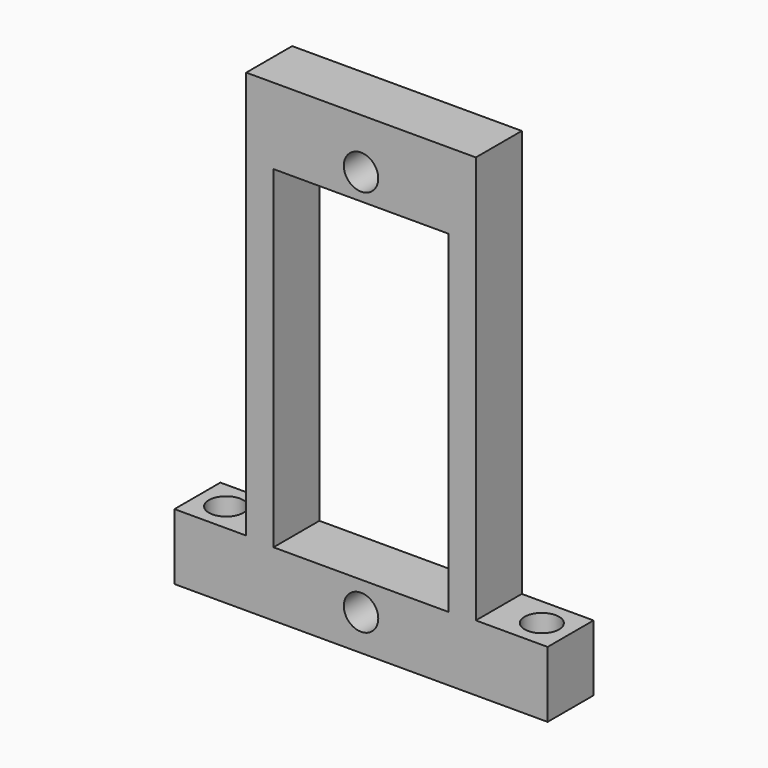
from build123d import *

# Parameters (mm, degrees)
BOX008_W          = 16
BOX008_H          = 4
BOX008_DEPTH      = 33
CYLINDER012_R     = 1.2
CYLINDER012_DEPTH = 20
ARRAY017_X_COUNT  = 2
ARRAY017_X_PITCH  = 22
BOX010_W          = 26
BOX010_H          = 4
BOX010_DEPTH      = 4.6
CYLINDER011_R     = 1.2
CYLINDER011_DEPTH = 4
ARRAY004_Z_COUNT  = 2
ARRAY004_Z_PITCH  = 27
BOX009_W          = 12.2
BOX009_H          = 4
BOX009_DEPTH      = 23.2


with BuildPart() as cube:
    # Box008 → Box008 (new body)
    with BuildSketch(Plane(origin=(-8, 14, 5), x_dir=(1, 0, 0), z_dir=(0, 0, 1))):
        with Locations((8, 2)):
            Rectangle(BOX008_W, BOX008_H)
    extrude(amount=BOX008_DEPTH)


with BuildPart() as connectorscrewcutters:
    # Cylinder012 → Cylinder012 (new body)
    with BuildSketch(Plane(origin=(11, 16, -5), x_dir=(1, 0, 0), z_dir=(0, 0, 1))):
        Circle(CYLINDER012_R)
    extrude(amount=CYLINDER012_DEPTH)

    # Array017 X: ConnectorScrewCutters ×2


with BuildPart() as connectorscrewcutters_1:
    add(connectorscrewcutters.part)
    with Locations(*[(-i * ARRAY017_X_PITCH, 0, 0) for i in range(1, ARRAY017_X_COUNT)]):
        add(connectorscrewcutters.part)


with BuildPart() as cut030:
    # Box010 → Box010 (new body)
    with BuildSketch(Plane(origin=(-13, 14, 5), x_dir=(1, 0, 0), z_dir=(0, 0, 1))):
        with Locations((13, 2)):
            Rectangle(BOX010_W, BOX010_H)
    extrude(amount=BOX010_DEPTH)

    # Cut028: cut ConnectorScrewCutters
    add(connectorscrewcutters_1.part, mode=Mode.SUBTRACT)

    # Cut030: cut Cube
    add(cube.part, mode=Mode.SUBTRACT)


with BuildPart() as screwcutters:
    # Cylinder011 → Cylinder011 (new body)
    with BuildSketch(Plane(origin=(0, 14, 7.5), x_dir=(1, 0, 0), z_dir=(0, 1, 0))):
        Circle(CYLINDER011_R)
    extrude(amount=CYLINDER011_DEPTH)

    # Array004 Z: ScrewCutters ×2


with BuildPart() as screwcutters_1:
    add(screwcutters.part)
    with Locations(*[(0, 0, i * ARRAY004_Z_PITCH) for i in range(1, ARRAY004_Z_COUNT)]):
        add(screwcutters.part)


with BuildPart() as cube001:
    # Box009 → Box009 (new body)
    with BuildSketch(Plane(origin=(-6.1, 14, 9.5), x_dir=(1, 0, 0), z_dir=(0, 0, 1))):
        with Locations((6.1, 2)):
            Rectangle(BOX009_W, BOX009_H)
    extrude(amount=BOX009_DEPTH)


with BuildPart() as cameraconnector:
    # Cut026 base: copy of Cube
    add(cube.part)

    # Cut026: cut Cube001
    add(cube001.part, mode=Mode.SUBTRACT)

    # Cut027: cut ScrewCutters
    add(screwcutters_1.part, mode=Mode.SUBTRACT)

    # Fusion003: union Cut030
    add(cut030.part)


with BuildPart() as cameraconnector_1:
    # Fusion003 placement: moved
    add(cameraconnector.part.moved(Location((0, 0, 485))))


solid = cameraconnector_1.part
